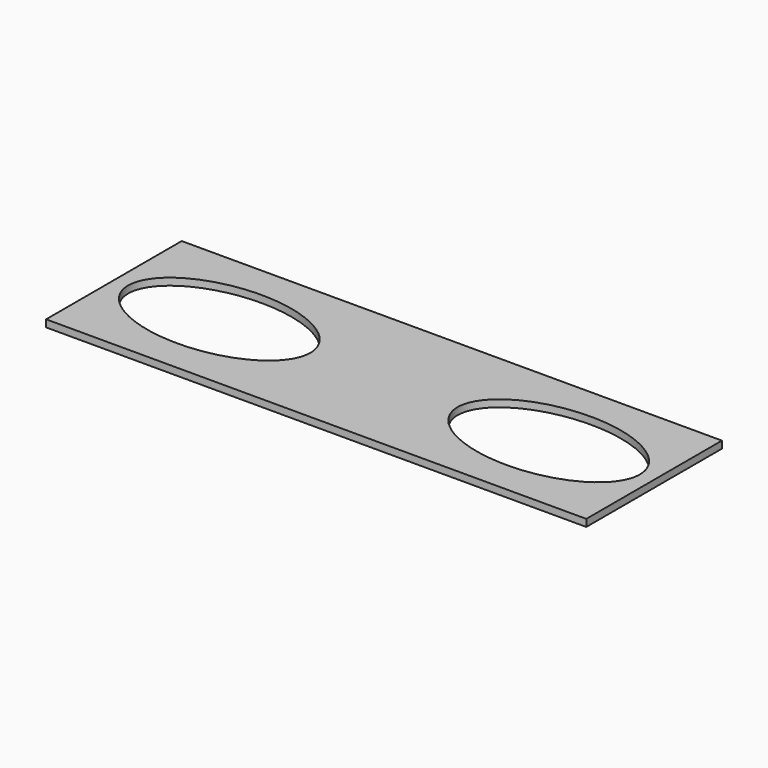
from build123d import *

# Parameters (mm, degrees)
F0_W     = 682
F0_H     = 214
F1_DEPTH = 9
F3_DEPTH = 25


with BuildPart() as f1:
    # F0 (on Top) → F1 (new body)
    with BuildSketch(Plane.XY):
        Rectangle(F0_W, F0_H)
    extrude(amount=F1_DEPTH)

    # F2 (on face) → F3 (cut)
    with BuildSketch(Plane.XY.offset(9)):
        with BuildLine():
            add(Edge.make_bspline(
                [(-92.841126, 0), (-92.841126, 114.876706), (-265.45148, 57.438353), (-438.061833, 0), (-265.45148, -57.438353), (-92.841126, -114.876706), (-92.841126, 0)],
                knots=[0, 0, 0, 2.094395, 2.094395, 4.18879, 4.18879, 6.283185, 6.283185, 6.283185], degree=2, weights=[1, 0.5, 1, 0.5, 1, 0.5, 1]))
        make_face()
        with BuildLine():
            add(Edge.make_bspline(
                [(92.841126, 0), (92.841126, -114.876706), (265.45148, -57.438353), (438.061833, 0), (265.45148, 57.438353), (92.841126, 114.876706), (92.841126, 0)],
                knots=[0, 0, 0, 2.094395, 2.094395, 4.18879, 4.18879, 6.283185, 6.283185, 6.283185], degree=2, weights=[1, 0.5, 1, 0.5, 1, 0.5, 1]))
        make_face()
    extrude(amount=-F3_DEPTH, mode=Mode.SUBTRACT)


solid = f1.part
